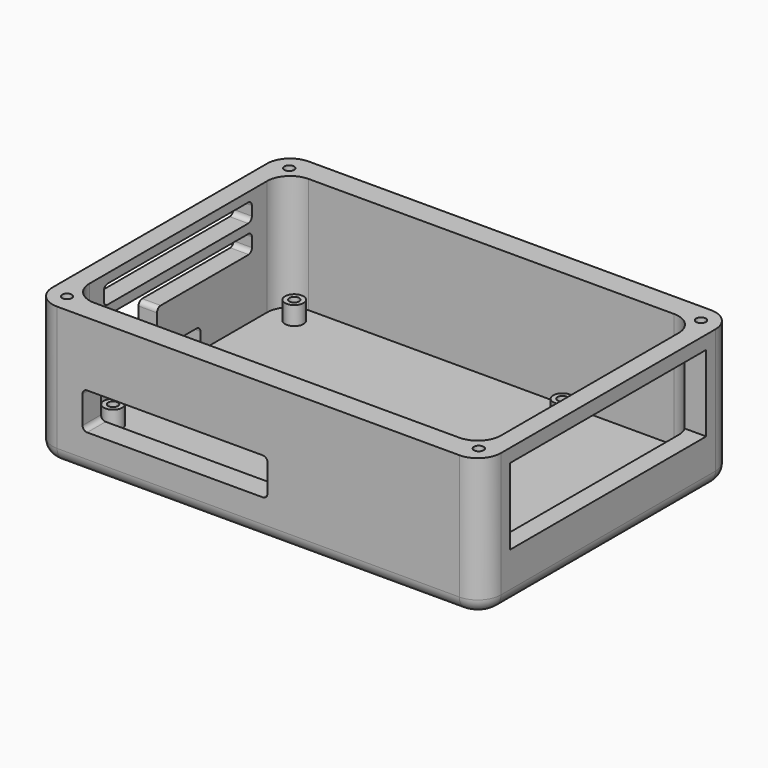
from build123d import *

# Parameters (mm, degrees)
PAD_DEPTH       = 5
FILLET_R        = 3
PAD001_DEPTH    = 25
SKETCH003_W     = 53
SKETCH003_H     = 16.5
POCKET_DEPTH    = 5
SKETCH001_R     = 2
PAD002_DEPTH    = 4
SKETCH004_R     = 1.05
HOLE_DEPTH      = 6
HOLE_TIPS_R     = 1.05
POCKET001_DEPTH = 10
POCKET002_DEPTH = 5
POCKET003_DEPTH = 5
SKETCH005_R     = 1.05
HOLE001_DEPTH   = 6
HOLE001_TIPS_R  = 1.05


with BuildPart() as part:
    # Sketch → Pad (new body)
    with BuildSketch(Plane.XY):
        with BuildLine():
            Line((-43.5, -34), (43.5, -34))
            ThreePointArc((43.5, -34), (47.035534, -32.535534), (48.5, -29))
            Line((48.5, -29), (48.5, 29))
            ThreePointArc((48.5, 29), (47.035534, 32.535534), (43.5, 34))
            Line((43.5, 34), (-43.5, 34))
            ThreePointArc((-43.5, 34), (-47.035534, 32.535534), (-48.5, 29))
            Line((-48.5, 29), (-48.5, -29))
            ThreePointArc((-48.5, -29), (-47.035534, -32.535534), (-43.5, -34))
        make_face()
    extrude(amount=PAD_DEPTH)

    # Fillet
    fillet_edges = [part.edges().sort_by_distance(p)[0] for p in [
        (0, -34, 0),
        (47.035534, -32.535534, 0),
        (48.5, 0, 0),
        (47.035534, 32.535534, 0),
        (0, 34, 0),
        (-47.035534, 32.535534, 0),
        (-48.5, 0, 0),
        (-47.035534, -32.535534, 0),
    ]]
    fillet(fillet_edges, radius=FILLET_R)

    # Sketch002 (on Face4 of Fillet) → Pad001 (join)
    with BuildSketch(Plane.XY.offset(5)):
        with BuildLine():
            Line((-43.5, -34), (43.5, -34))
            ThreePointArc((43.5, -34), (47.035534, -32.535534), (48.5, -29))
            Line((48.5, -29), (48.5, 29))
            ThreePointArc((48.5, 29), (47.035534, 32.535534), (43.5, 34))
            Line((43.5, 34), (-43.5, 34))
            ThreePointArc((-43.5, 34), (-47.035534, 32.535534), (-48.5, 29))
            Line((-48.5, 29), (-48.5, -29))
            ThreePointArc((-48.5, -29), (-47.035534, -32.535534), (-43.5, -34))
        make_face()
        with BuildLine():
            Line((-39.5, -29), (39.5, -29))
            ThreePointArc((39.5, -29), (43.035534, -27.535534), (44.5, -24))
            Line((44.5, -24), (44.5, 24))
            ThreePointArc((44.5, 24), (43.035534, 27.535534), (39.5, 29))
            Line((39.5, 29), (-39.5, 29))
            ThreePointArc((-39.5, 29), (-43.035534, 27.535534), (-44.5, 24))
            Line((-44.5, 24), (-44.5, -24))
            ThreePointArc((-44.5, -24), (-43.035534, -27.535534), (-39.5, -29))
        make_face(mode=Mode.SUBTRACT)
    extrude(amount=PAD001_DEPTH)

    # Sketch003 (on Face22 of Pad001) → Pocket (cut)
    with BuildSketch(Plane.YZ.offset(48.5)):
        with Locations((0, 18.85)):
            Rectangle(SKETCH003_W, SKETCH003_H)
    extrude(amount=-POCKET_DEPTH, mode=Mode.SUBTRACT)

    # Sketch001 (on Face4 of Fillet) → Pad002 (join)
    with BuildSketch(Plane.XY.offset(5)):
        with Locations((18.99123, 24.5)):
            Circle(SKETCH001_R)
        with Locations((18.99123, -24.5)):
            Circle(SKETCH001_R)
        with Locations((-39.00877, -24.5)):
            Circle(SKETCH001_R)
        with Locations((-39.00877, 24.5)):
            Circle(SKETCH001_R)
    extrude(amount=PAD002_DEPTH)

    # Sketch004 (on Face39 of Pad002) → Hole (cut)
    with BuildSketch(Plane.XY.offset(9)):
        with Locations((-39.00877, 24.5)):
            Circle(SKETCH004_R)
        with Locations((18.99123, 24.5)):
            Circle(SKETCH004_R)
        with Locations((18.99123, -24.5)):
            Circle(SKETCH004_R)
        with Locations((-39.00877, -24.5)):
            Circle(SKETCH004_R)
    extrude(amount=-HOLE_DEPTH, mode=Mode.SUBTRACT)

    # Hole tips → Hole tip 1 section 0
    with BuildSketch(Plane.XY.offset(3), mode=Mode.PRIVATE) as hole_tip_1_s0:
        with Locations((-39.00877, 24.5)):
            Circle(HOLE_TIPS_R)
    loft([hole_tip_1_s0.sketch, Vertex(-39.00877, 24.5, 2.369096)], mode=Mode.SUBTRACT)

    # Hole tips → Hole tip 2 section 0
    with BuildSketch(Plane.XY.offset(3), mode=Mode.PRIVATE) as hole_tip_2_s0:
        with Locations((18.99123, 24.5)):
            Circle(HOLE_TIPS_R)
    loft([hole_tip_2_s0.sketch, Vertex(18.99123, 24.5, 2.369096)], mode=Mode.SUBTRACT)

    # Hole tips → Hole tip 3 section 0
    with BuildSketch(Plane.XY.offset(3), mode=Mode.PRIVATE) as hole_tip_3_s0:
        with Locations((18.99123, -24.5)):
            Circle(HOLE_TIPS_R)
    loft([hole_tip_3_s0.sketch, Vertex(18.99123, -24.5, 2.369096)], mode=Mode.SUBTRACT)

    # Hole tips → Hole tip 4 section 0
    with BuildSketch(Plane.XY.offset(3), mode=Mode.PRIVATE) as hole_tip_4_s0:
        with Locations((-39.00877, -24.5)):
            Circle(HOLE_TIPS_R)
    loft([hole_tip_4_s0.sketch, Vertex(-39.00877, -24.5, 2.369096)], mode=Mode.SUBTRACT)

    # Sketch006 (on Face14 of Hole) → Pocket001 (cut)
    with BuildSketch(Plane(origin=(-48.5, 0, 0), x_dir=(0, -1, 0), z_dir=(-1, 0, 0))):
        with BuildLine():
            Line((-5, -0.312917), (5, -0.312917))
            ThreePointArc((5, -0.312917), (5.707107, -0.020023), (6, 0.687083))
            Line((6, 0.687083), (6, 8.687083))
            ThreePointArc((6, 8.687083), (5.707107, 9.39419), (5, 9.687083))
            Line((5, 9.687083), (-5, 9.687083))
            ThreePointArc((-5, 9.687083), (-5.707107, 9.39419), (-6, 8.687083))
            Line((-6, 8.687083), (-6, 0.687083))
            ThreePointArc((-6, 0.687083), (-5.707107, -0.020023), (-5, -0.312917))
        make_face()
    extrude(amount=-POCKET001_DEPTH, mode=Mode.SUBTRACT)

    # Sketch007 (on Face18 of Pocket001) → Pocket002 (cut)
    with BuildSketch(Plane(origin=(-48.5, 0, 0), x_dir=(0, -1, 0), z_dir=(-1, 0, 0))):
        with BuildLine():
            Line((20.078789, 18.994771), (20.078789, 21))
            ThreePointArc((20.078789, 21), (19.785896, 21.707107), (19.078789, 22))
            Line((19.078789, 22), (-18.921211, 22))
            ThreePointArc((-18.921211, 22), (-19.628318, 21.707107), (-19.921211, 21))
            Line((-19.921211, 21), (-19.921211, 18.99124))
            ThreePointArc((-19.921211, 18.99124), (-19.680243, 18.340186), (-19.07347, 18.002899))
            Line((4.75, 18.002899), (-19.07347, 18.002899))
            ThreePointArc((5.75, 17.002899), (5.457107, 17.710006), (4.75, 18.002899))
            Line((5.75, 12.002899), (5.75, 17.002899))
            ThreePointArc((5.75, 12.002899), (6.042893, 11.295792), (6.75, 11.002899))
            Line((11.75, 11.002899), (6.75, 11.002899))
            ThreePointArc((11.75, 11.002899), (12.457107, 11.295792), (12.75, 12.002899))
            Line((12.75, 17.001614), (12.75, 12.002899))
            ThreePointArc((13.751284, 18.001613), (13.043347, 17.709174), (12.75, 17.001614))
            Line((19.077505, 17.994772), (13.751284, 18.001613))
            ThreePointArc((19.077505, 17.994772), (19.785442, 18.28721), (20.078789, 18.994771))
        make_face()
        with BuildLine():
            Line((-18.890292, 24), (19.109708, 24))
            ThreePointArc((19.109708, 24), (19.816815, 24.292893), (20.109708, 25))
            Line((20.109708, 25), (20.109708, 27))
            ThreePointArc((20.109708, 27), (19.816815, 27.707107), (19.109708, 28))
            Line((19.109708, 28), (-18.890292, 28))
            ThreePointArc((-18.890292, 28), (-19.597398, 27.707107), (-19.890292, 27))
            Line((-19.890292, 27), (-19.890292, 25))
            ThreePointArc((-19.890292, 25), (-19.597398, 24.292893), (-18.890292, 24))
        make_face()
    extrude(amount=-POCKET002_DEPTH, mode=Mode.SUBTRACT)

    # Sketch009 (on Face3 of Pocket002) → Pocket003 (cut)
    with BuildSketch(Plane.XZ.offset(34)):
        with BuildLine():
            Line((-37.00877, 8.15), (0.99123, 8.15))
            ThreePointArc((0.99123, 8.15), (1.698337, 8.442893), (1.99123, 9.15))
            Line((1.99123, 9.15), (1.99123, 15.15))
            ThreePointArc((1.99123, 15.15), (1.698337, 15.857107), (0.99123, 16.15))
            Line((0.99123, 16.15), (-37.00877, 16.15))
            ThreePointArc((-37.00877, 16.15), (-37.715877, 15.857107), (-38.00877, 15.15))
            Line((-38.00877, 15.15), (-38.00877, 9.15))
            ThreePointArc((-38.00877, 9.15), (-37.715877, 8.442893), (-37.00877, 8.15))
        make_face()
    extrude(amount=-POCKET003_DEPTH, mode=Mode.SUBTRACT)

    # Sketch005 (on Face9 of Hole) → Hole001 (cut)
    with BuildSketch(Plane.XY.offset(30)):
        with Locations((-44.535534, -30.035534)):
            Circle(SKETCH005_R)
        with Locations((44.534466, -30.034466)):
            Circle(SKETCH005_R)
        with Locations((44.535534, 30.035534)):
            Circle(SKETCH005_R)
        with Locations((-44.535534, 30.035534)):
            Circle(SKETCH005_R)
    extrude(amount=-HOLE001_DEPTH, mode=Mode.SUBTRACT)

    # Hole001 tips → Hole001 tip 1 section 0
    with BuildSketch(Plane.XY.offset(24), mode=Mode.PRIVATE) as hole001_tip_1_s0:
        with Locations((-44.535534, -30.035534)):
            Circle(HOLE001_TIPS_R)
    loft([hole001_tip_1_s0.sketch, Vertex(-44.535534, -30.035534, 23.369096)], mode=Mode.SUBTRACT)

    # Hole001 tips → Hole001 tip 2 section 0
    with BuildSketch(Plane.XY.offset(24), mode=Mode.PRIVATE) as hole001_tip_2_s0:
        with Locations((44.534466, -30.034466)):
            Circle(HOLE001_TIPS_R)
    loft([hole001_tip_2_s0.sketch, Vertex(44.534466, -30.034466, 23.369096)], mode=Mode.SUBTRACT)

    # Hole001 tips → Hole001 tip 3 section 0
    with BuildSketch(Plane.XY.offset(24), mode=Mode.PRIVATE) as hole001_tip_3_s0:
        with Locations((44.535534, 30.035534)):
            Circle(HOLE001_TIPS_R)
    loft([hole001_tip_3_s0.sketch, Vertex(44.535534, 30.035534, 23.369096)], mode=Mode.SUBTRACT)

    # Hole001 tips → Hole001 tip 4 section 0
    with BuildSketch(Plane.XY.offset(24), mode=Mode.PRIVATE) as hole001_tip_4_s0:
        with Locations((-44.535534, 30.035534)):
            Circle(HOLE001_TIPS_R)
    loft([hole001_tip_4_s0.sketch, Vertex(-44.535534, 30.035534, 23.369096)], mode=Mode.SUBTRACT)


solid = part.part
